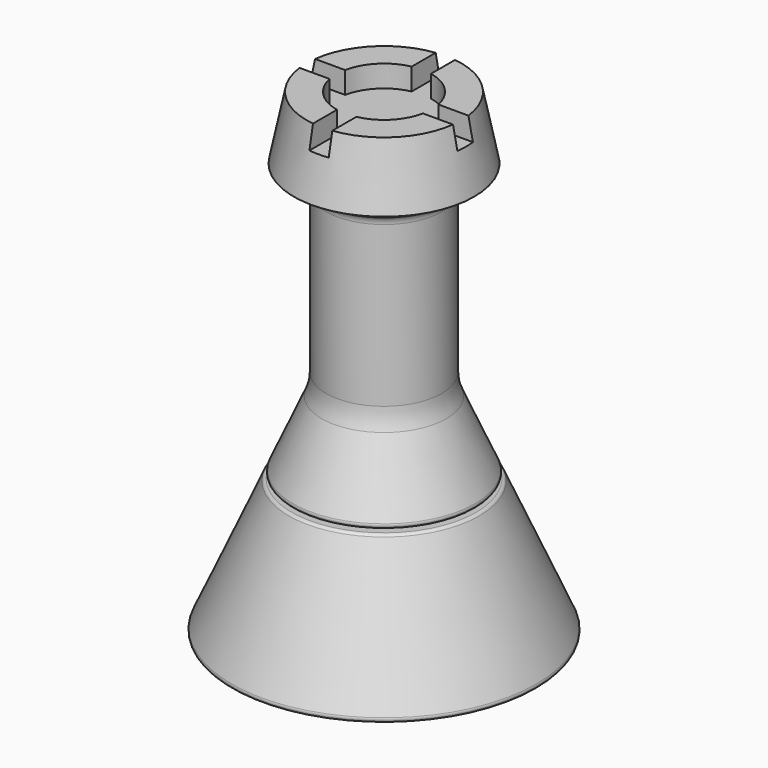
from build123d import *

# Parameters (mm, degrees)
F3_DEPTH = 25


with BuildPart() as f1:
    # F0 (on Front) → F1 (revolve)
    with BuildSketch(Plane.XZ):
        with BuildLine():
            Line((0, 35.3), (0, 0))
            Line((0, 0), (11.585176, 0))
            ThreePointArc((11.585176, 0), (11.811694, 0.122741), (11.832561, 0.37953))
            Line((11.832561, 0.37953), (7.402666, 10.420623))
            ThreePointArc((7.402666, 10.420623), (7.302931, 10.538001), (7.155282, 10.581872))
            Line((7.155282, 10.581872), (6.45026, 10.581872))
            Line((6.45026, 10.581872), (6.940562, 10.798182))
            ThreePointArc((6.940562, 10.798182), (7.083523, 10.947813), (7.078806, 11.154706))
            Line((7.078806, 11.154706), (4.840329, 16.228588))
            ThreePointArc((4.840329, 16.228588), (4.586007, 17.018129), (4.5, 17.843149))
            Line((4.5, 17.843149), (4.5, 30.261841))
            ThreePointArc((4.5, 30.261841), (4.704119, 30.832586), (5.223888, 31.144443))
            Line((5.223888, 31.144443), (5.306957, 31.161018))
            Line((5.306957, 31.161018), (5.306957, 31.474352))
            Line((5.306957, 31.474352), (5.620291, 31.474352))
            Line((5.620291, 31.474352), (5.620291, 31.787686))
            Line((5.620291, 31.787686), (5.933625, 31.787686))
            Line((5.933625, 31.787686), (5.933625, 32.101021))
            Line((5.933625, 32.101021), (7, 32.101021))
            Line((7, 32.101021), (6, 37))
            Line((6, 37), (3.7, 37))
            Line((3.7, 37), (3.7, 35.3))
            Line((3.7, 35.3), (0, 35.3))
        make_face()
    revolve(axis=Axis((0, 0, 41.82879), (0, 0, -1)))

    # F2 (on face) → F3 (cut)
    with BuildSketch(Plane.XY.offset(35.3)):
        Polygon((-0.75, 0.75), (-12.710872, 0.75), (-12.710872, -0.75), (-0.75, -0.75), (-0.75, 0), align=None)
        Polygon((-0.75, 10.014767), (-0.75, 0.75), (0, 0.75), (0.75, 0.75), (0.75, 10.014767), align=None)
        Polygon((0, -0.75), (-0.75, -0.75), (-0.75, -9.985969), (0.75, -9.985969), (0.75, -0.75), align=None)
        Polygon((15.704991, 0.75), (0.75, 0.75), (0.75, 0), (0.75, -0.75), (15.704991, -0.75), align=None)
    extrude(amount=F3_DEPTH, mode=Mode.SUBTRACT)


solid = f1.part
